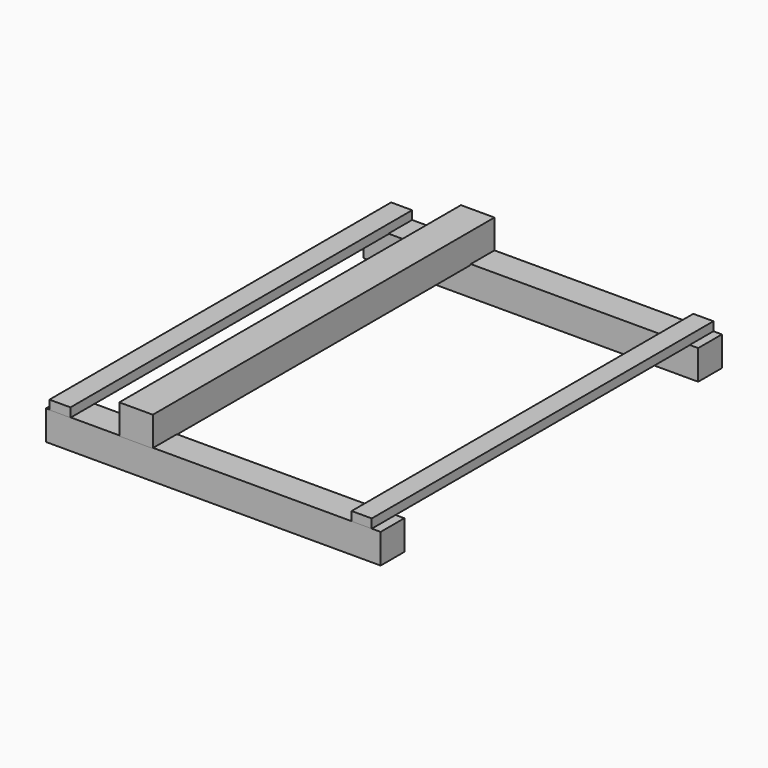
from build123d import *

# Parameters (mm, degrees)
F0_W     = 31.75
F0_H     = 31.75
F1_DEPTH = 179.07
F2_W     = 35.875427
F2_H     = 31.822059
F2_W_2   = 22.495233
F2_H_2   = 9.716568
F2_W_3   = 21.535851
F2_H_3   = 9.664734
F3_DEPTH = 228.6


with BuildPart() as f1:
    # F0 (on Right) → F1 (new body, symmetric)
    with BuildSketch(Plane.YZ):
        with Locations((-212.228027, -25.814129)):
            Rectangle(F0_W, F0_H)
        with Locations((212.724995, -25.317174)):
            Rectangle(F0_W, F0_H)
    extrude(amount=F1_DEPTH, both=True)


with BuildPart() as f3:
    # F2 (on Front) → F3 (new body, symmetric)
    with BuildSketch(Plane.XZ):
        with Locations((-82.378453, 5.60361)):
            Rectangle(F2_W, F2_H)
        with Locations((-163.813244, -5.080846)):
            Rectangle(F2_W_2, F2_H_2)
        with Locations((159.191188, -4.832367)):
            Rectangle(F2_W_3, F2_H_3)
    extrude(amount=F3_DEPTH, both=True)


solid = Compound([f1.part, f3.part])
